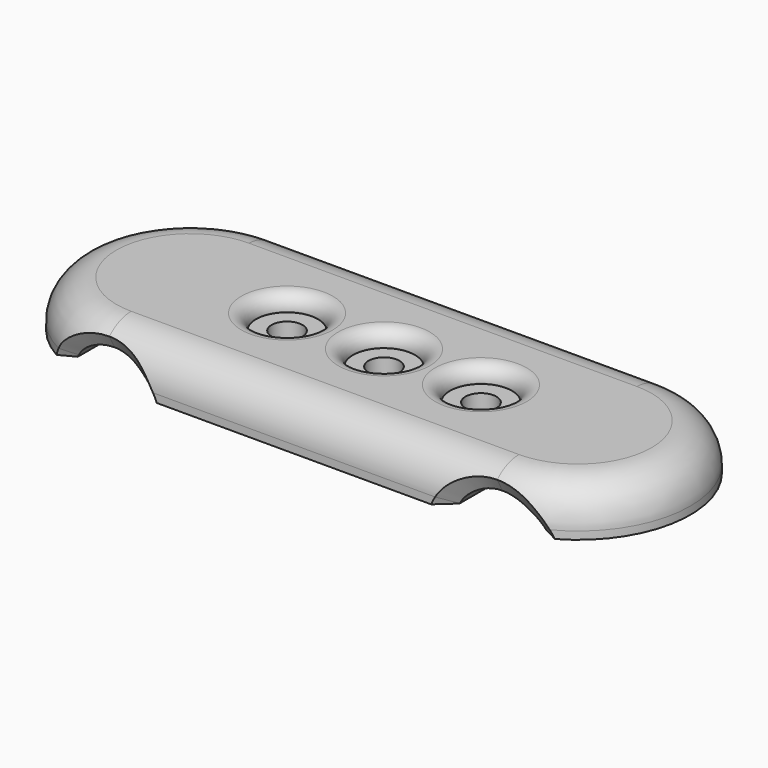
from build123d import *

# Parameters (mm, degrees)
SKETCH_R        = 2
PAD_DEPTH       = 6
SKETCH001_R     = 4
POCKET_DEPTH    = 2
FILLET_R        = 1.9
FILLET001_R     = 5
SKETCH002_R     = 6
POCKET001_DEPTH = 29.001
CHAMFER_SIZE    = 1.9


with BuildPart() as part:
    # Sketch → Pad (new body)
    with BuildSketch(Plane.XY):
        with BuildLine():
            ThreePointArc((0, 14.5), (-14.5, 0), (0, -14.5))
            Line((0, -14.5), (50, -14.5))
            ThreePointArc((50, -14.5), (64.5, 0), (50, 14.5))
            Line((0, 14.5), (50, 14.5))
        make_face()
        with Locations((25, 0)):
            Circle(SKETCH_R, mode=Mode.SUBTRACT)
        with Locations((12.5, 0)):
            Circle(SKETCH_R, mode=Mode.SUBTRACT)
        with Locations((37.5, 0)):
            Circle(SKETCH_R, mode=Mode.SUBTRACT)
    extrude(amount=PAD_DEPTH)

    # Sketch001 → Pocket (cut)
    with BuildSketch(Plane.XY.offset(6)):
        with Locations((12.5, 0)):
            Circle(SKETCH001_R)
        with Locations((25, 0)):
            Circle(SKETCH001_R)
        with Locations((37.5, 0)):
            Circle(SKETCH001_R)
    extrude(amount=-POCKET_DEPTH, mode=Mode.SUBTRACT)

    # Fillet
    fillet_edges = [part.edges().sort_by_distance(p)[0] for p in [
        (8.5, 0, 6),
        (21, 0, 6),
        (33.5, 0, 6),
    ]]
    fillet(fillet_edges, radius=FILLET_R)

    # Fillet001
    fillet001_edges = [part.edges().sort_by_distance(p)[0] for p in [
        (-14.5, 0, 6),
    ]]
    fillet(fillet001_edges, radius=FILLET001_R)

    # Sketch002 → Pocket001 (cut, through all)
    with BuildSketch(Plane.XZ.offset(14.5)):
        with Locations((0, -3)):
            Circle(SKETCH002_R)
        with Locations((50, -3)):
            Circle(SKETCH002_R)
    extrude(amount=-POCKET001_DEPTH, mode=Mode.SUBTRACT)

    # Chamfer
    chamfer_edges = [part.edges().sort_by_distance(p)[0] for p in [
        (2.450557, -14.276946, 2.476748),
        (52.457712, -14.064819, 2.473541),
        (2.450557, 14.276946, 2.476748),
        (47.549443, 14.276946, 2.476748),
    ]]
    chamfer(chamfer_edges, length=CHAMFER_SIZE)


solid = part.part
